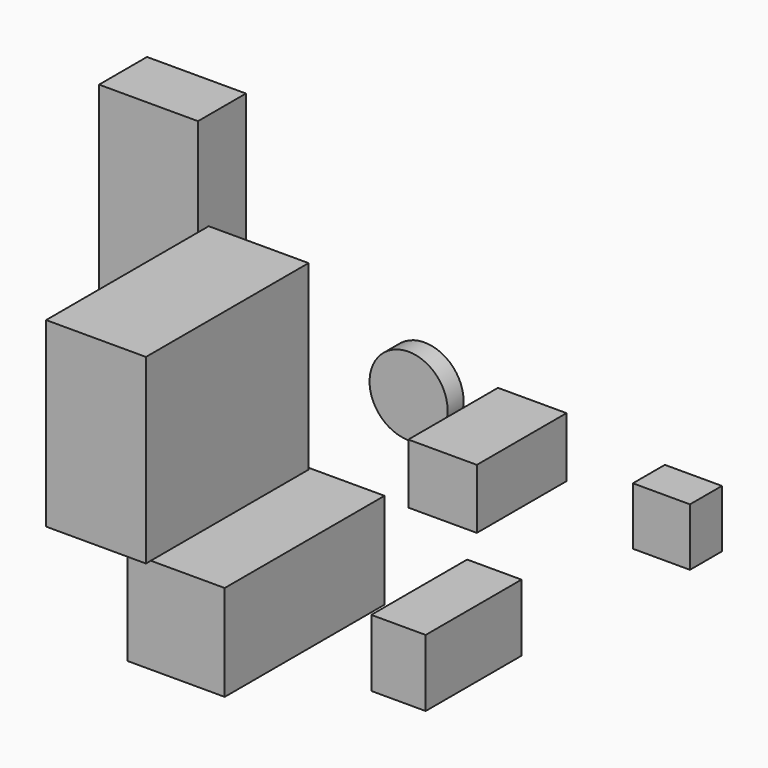
from build123d import *

# Parameters (mm, degrees)
F0_W      = 72.573338
F0_H      = 73.327383
F1_DEPTH  = 50.8
F2_W      = 69.151819
F2_H      = 85.198536
F3_DEPTH  = 152.4
F4_W      = 87.134377
F4_H      = 142.50181
F5_DEPTH  = 76.2
F6_R      = 49.61442
F7_DEPTH  = 25.4
F8_W      = 123.961538
F8_H      = 121.921949
F9_DEPTH  = 254
F10_W     = 258.504569
F10_H     = 231.293172
F11_DEPTH = 127
F12_W     = 125.834048
F12_H     = 331.76554
F13_DEPTH = 76.2


with BuildPart() as f1:
    # F0 (on Front) → F1 (new body)
    with BuildSketch(Plane.XZ):
        with Locations((-13.056414, 18.78293)):
            Rectangle(F0_W, F0_H)
    extrude(amount=F1_DEPTH)


with BuildPart() as f3:
    # F2 (on Front) → F3 (new body)
    with BuildSketch(Plane.XZ):
        with Locations((-266.210169, -174.963288)):
            Rectangle(F2_W, F2_H)
    extrude(amount=F3_DEPTH)


with BuildPart() as f5:
    # F4 (on Top) → F5 (new body)
    with BuildSketch(Plane.XY):
        with Locations((-213.768207, -76.57985)):
            Rectangle(F4_W, F4_H)
    extrude(amount=F5_DEPTH)


with BuildPart() as f7:
    # F6 (on Front) → F7 (new body)
    with BuildSketch(Plane.XZ):
        with Locations((-354.950786, 43.465886)):
            Circle(F6_R)
    extrude(amount=F7_DEPTH)


with BuildPart() as f9:
    # F8 (on Front) → F9 (new body)
    with BuildSketch(Plane.XZ):
        with Locations((-467.893496, -156.141538)):
            Rectangle(F8_W, F8_H)
    extrude(amount=F9_DEPTH)


with BuildPart() as f11:
    # F10 (on Right) → F11 (new body)
    with BuildSketch(Plane.YZ):
        with Locations((-916.139632, 542.904034)):
            Rectangle(F10_W, F10_H)
    extrude(amount=F11_DEPTH)


with BuildPart() as f13:
    # F12 (on Front) → F13 (new body)
    with BuildSketch(Plane.XZ):
        with Locations((-645.058066, 132.048871)):
            Rectangle(F12_W, F12_H)
    extrude(amount=F13_DEPTH)


solid = Compound([f1.part, f3.part, f5.part, f7.part, f9.part, f11.part, f13.part])
